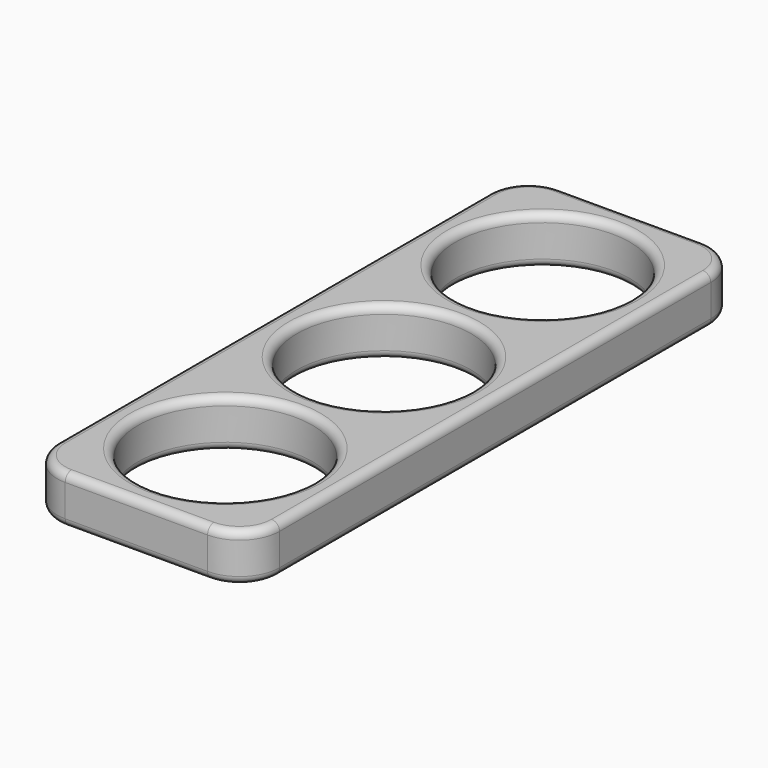
from build123d import *

# Parameters (mm, degrees)
F2_R     = 10.9
F3_DEPTH = 6
F4_R     = 1


with BuildPart() as f3:
    # F2 (on Top) → F3 (new body)
    with BuildSketch(Plane.XY):
        with BuildLine():
            ThreePointArc((13.9, 33.7), (12.4355339059, 37.2355339059), (8.9, 38.7))
            Line((8.9, 38.7), (-8.9, 38.7))
            ThreePointArc((-8.9, 38.7), (-12.4355339059, 37.2355339059), (-13.9, 33.7))
            Line((-13.9, 33.7), (-13.9, -33.7))
            ThreePointArc((-13.9, -33.7), (-12.4355339059, -37.2355339059), (-8.9, -38.7))
            Line((-8.9, -38.7), (8.9, -38.7))
            ThreePointArc((8.9, -38.7), (12.4355339059, -37.2355339059), (13.9, -33.7))
            Line((13.9, -33.7), (13.9, 33.7))
        make_face()
        with Locations((0, -24.8)):
            Circle(F2_R, mode=Mode.SUBTRACT)
        Circle(F2_R, mode=Mode.SUBTRACT)
        with Locations((0, 24.8)):
            Circle(F2_R, mode=Mode.SUBTRACT)
    extrude(amount=F3_DEPTH)

    # F4
    f4_edges = [f3.edges().sort_by_distance(p)[0] for p in [
        (12.435534, 37.235534, 6),
        (0, 38.7, 6),
        (-12.435534, 37.235534, 6),
        (-13.9, 0, 6),
        (-12.435534, -37.235534, 6),
        (0, -38.7, 6),
        (12.435534, -37.235534, 6),
        (13.9, 0, 6),
        (-10.9, -24.8, 6),
        (-10.9, 0, 6),
        (-10.9, 24.8, 6),
        (12.435534, 37.235534, 0),
        (0, 38.7, 0),
        (-12.435534, 37.235534, 0),
        (-13.9, 0, 0),
        (-12.435534, -37.235534, 0),
        (0, -38.7, 0),
        (12.435534, -37.235534, 0),
        (13.9, 0, 0),
        (-10.9, -24.8, 0),
        (-10.9, 0, 0),
        (-10.9, 24.8, 0),
    ]]
    fillet(f4_edges, radius=F4_R)


solid = f3.part
